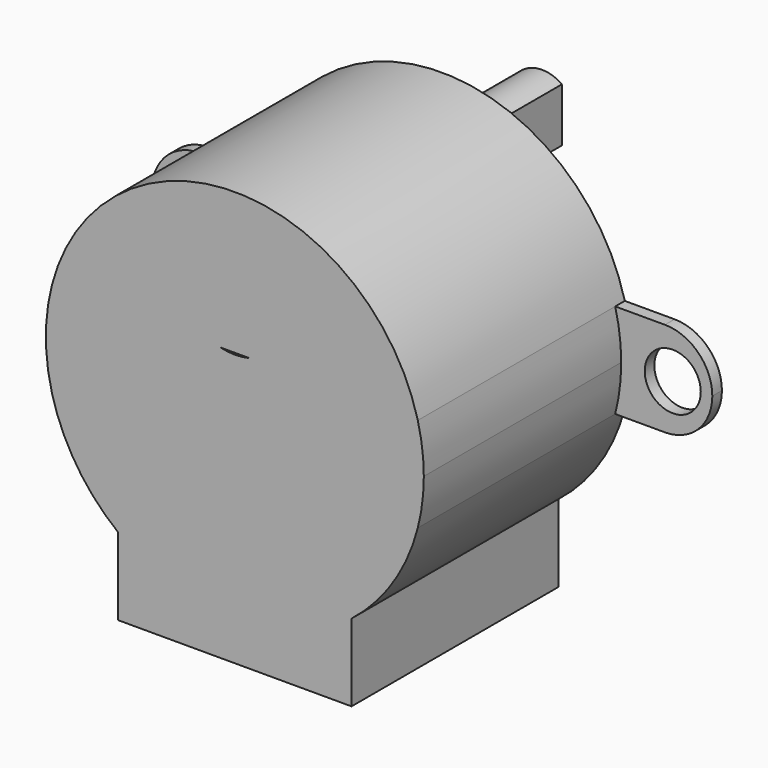
from build123d import *

# Parameters (mm, degrees)
F1_DEPTH = 19.4
F0_R     = 2.1
F2_DEPTH = 0.9
F3_DEPTH = 1.25
F4_DEPTH = 3.29
F5_DEPTH = 9.4


with BuildPart() as f1:
    # F0 (on Front) → F1 (new body)
    with BuildSketch(Plane.XZ):
        with BuildLine():
            ThreePointArc((-13.7181048254, 3.55), (-14.17, 0), (-13.7181048254, -3.55))
            Line((-13.7181048254, -3.55), (13.7181048254, -3.55))
            ThreePointArc((13.7181048254, -3.55), (14.056572224, -1.7893231436), (14.17, 0))
            ThreePointArc((14.17, 0), (14.056572224, 1.7893231436), (13.7181048254, 3.55))
            Line((13.7181048254, 3.55), (1.0858637115, 3.55))
            ThreePointArc((1.0858637115, 3.55), (0, 3.42), (-1.0858637115, 3.55))
            Line((-1.0858637115, 3.55), (-13.7181048254, 3.55))
        make_face()
        with BuildLine():
            ThreePointArc((13.7181048254, 3.55), (0, 14.17), (-13.7181048254, 3.55))
            Line((-13.7181048254, 3.55), (-1.0858637115, 3.55))
            ThreePointArc((-1.0858637115, 3.55), (-2.842976163, 11.6362807602), (4.6, 8.02))
            ThreePointArc((4.6, 8.02), (3.6162807602, 5.177023837), (1.0858637115, 3.55))
            Line((1.0858637115, 3.55), (13.7181048254, 3.55))
        make_face()
        with BuildLine():
            ThreePointArc((-13.7181048254, -3.55), (-11.8586491349, -7.7563741977), (-8.75, -11.1456897499))
            Line((-8.75, -11.1456897499), (8.75, -11.1456897499))
            ThreePointArc((8.75, -11.1456897499), (11.8586491349, -7.7563741977), (13.7181048254, -3.55))
            Line((13.7181048254, -3.55), (-13.7181048254, -3.55))
        make_face()
        with BuildLine():
            ThreePointArc((8.75, -11.1456897499), (0, -14.17), (-8.75, -11.1456897499))
            Line((-8.75, -11.1456897499), (-8.75, -16.9456897499))
            Line((-8.75, -16.9456897499), (8.75, -16.9456897499))
            Line((8.75, -16.9456897499), (8.75, -11.1456897499))
        make_face()
        with BuildLine():
            Line((8.75, -11.1456897499), (-8.75, -11.1456897499))
            ThreePointArc((-8.75, -11.1456897499), (0, -14.17), (8.75, -11.1456897499))
        make_face()
        with BuildLine():
            ThreePointArc((4.6, 8.02), (-2.842976163, 11.6362807602), (-1.0858637115, 3.55))
            Line((-1.0858637115, 3.55), (1.0858637115, 3.55))
            ThreePointArc((1.0858637115, 3.55), (3.6162807602, 5.177023837), (4.6, 8.02))
        make_face()
        with BuildLine():
            ThreePointArc((1.475, 10.0385081124), (2.2290693125, 9.1519231423), (2.5, 8.02))
            ThreePointArc((2.5, 8.02), (2.2290693125, 6.8880768577), (1.475, 6.0014918876))
            ThreePointArc((1.475, 6.0014918876), (0, 5.52), (-1.475, 6.0014918876))
            ThreePointArc((-1.475, 6.0014918876), (-2.5, 8.02), (-1.475, 10.0385081124))
            ThreePointArc((-1.475, 10.0385081124), (0, 10.52), (1.475, 10.0385081124))
        make_face(mode=Mode.SUBTRACT)
        with BuildLine():
            Line((1.475, 6.0014918876), (1.475, 10.0385081124))
            ThreePointArc((1.475, 10.0385081124), (0, 10.52), (-1.475, 10.0385081124))
            Line((-1.475, 10.0385081124), (-1.475, 6.0014918876))
            ThreePointArc((-1.475, 6.0014918876), (0, 5.52), (1.475, 6.0014918876))
        make_face()
        with BuildLine():
            ThreePointArc((1.475, 6.0014918876), (2.2290693125, 6.8880768577), (2.5, 8.02))
            ThreePointArc((2.5, 8.02), (2.2290693125, 9.1519231423), (1.475, 10.0385081124))
            Line((1.475, 10.0385081124), (1.475, 6.0014918876))
        make_face()
        with BuildLine():
            Line((-1.475, 6.0014918876), (-1.475, 10.0385081124))
            ThreePointArc((-1.475, 10.0385081124), (-2.5, 8.02), (-1.475, 6.0014918876))
        make_face()
    extrude(amount=F1_DEPTH)

    # F0 (on Front) → F2 (join)
    with BuildSketch(Plane.XZ):
        with BuildLine():
            ThreePointArc((14.17, 0), (14.056572224, -1.7893231436), (13.7181048254, -3.55))
            Line((13.7181048254, -3.55), (17.45, -3.55))
            ThreePointArc((17.45, -3.55), (19.9602290732, -2.5102290732), (21, 0))
            ThreePointArc((21, 0), (19.9602290732, 2.5102290732), (17.45, 3.55))
            Line((17.45, 3.55), (13.7181048254, 3.55))
            ThreePointArc((13.7181048254, 3.55), (14.056572224, 1.7893231436), (14.17, 0))
        make_face()
        with Locations((18.0333442986, 0)):
            Circle(F0_R, mode=Mode.SUBTRACT)
        with BuildLine():
            Line((-17.45, -3.55), (-13.7181048254, -3.55))
            ThreePointArc((-13.7181048254, -3.55), (-14.17, 0), (-13.7181048254, 3.55))
            Line((-13.7181048254, 3.55), (-17.45, 3.55))
            ThreePointArc((-17.45, 3.55), (-19.9602290732, 2.5102290732), (-21, 0))
            ThreePointArc((-21, 0), (-19.9602290732, -2.5102290732), (-17.45, -3.55))
        make_face()
        with Locations((-18.0333442986, 0)):
            Circle(F0_R, mode=Mode.SUBTRACT)
    extrude(amount=F2_DEPTH)

    # F0 (on Front) → F3 (join)
    with BuildSketch(Plane.XZ):
        with BuildLine():
            ThreePointArc((4.6, 8.02), (-2.842976163, 11.6362807602), (-1.0858637115, 3.55))
            Line((-1.0858637115, 3.55), (1.0858637115, 3.55))
            ThreePointArc((1.0858637115, 3.55), (3.6162807602, 5.177023837), (4.6, 8.02))
        make_face()
        with BuildLine():
            ThreePointArc((1.475, 10.0385081124), (2.2290693125, 9.1519231423), (2.5, 8.02))
            ThreePointArc((2.5, 8.02), (2.2290693125, 6.8880768577), (1.475, 6.0014918876))
            ThreePointArc((1.475, 6.0014918876), (0, 5.52), (-1.475, 6.0014918876))
            ThreePointArc((-1.475, 6.0014918876), (-2.5, 8.02), (-1.475, 10.0385081124))
            ThreePointArc((-1.475, 10.0385081124), (0, 10.52), (1.475, 10.0385081124))
        make_face(mode=Mode.SUBTRACT)
    extrude(amount=-F3_DEPTH)

    # F0 (on Front) → F4 (join)
    with BuildSketch(Plane.XZ):
        with BuildLine():
            Line((-1.475, 6.0014918876), (-1.475, 10.0385081124))
            ThreePointArc((-1.475, 10.0385081124), (-2.5, 8.02), (-1.475, 6.0014918876))
        make_face()
        with BuildLine():
            Line((1.475, 6.0014918876), (1.475, 10.0385081124))
            ThreePointArc((1.475, 10.0385081124), (0, 10.52), (-1.475, 10.0385081124))
            Line((-1.475, 10.0385081124), (-1.475, 6.0014918876))
            ThreePointArc((-1.475, 6.0014918876), (0, 5.52), (1.475, 6.0014918876))
        make_face()
        with BuildLine():
            ThreePointArc((1.475, 6.0014918876), (2.2290693125, 6.8880768577), (2.5, 8.02))
            ThreePointArc((2.5, 8.02), (2.2290693125, 9.1519231423), (1.475, 10.0385081124))
            Line((1.475, 10.0385081124), (1.475, 6.0014918876))
        make_face()
    extrude(amount=-F4_DEPTH)

    # F0 (on Front) → F5 (join)
    with BuildSketch(Plane.XZ):
        with BuildLine():
            Line((1.475, 6.0014918876), (1.475, 10.0385081124))
            ThreePointArc((1.475, 10.0385081124), (0, 10.52), (-1.475, 10.0385081124))
            Line((-1.475, 10.0385081124), (-1.475, 6.0014918876))
            ThreePointArc((-1.475, 6.0014918876), (0, 5.52), (1.475, 6.0014918876))
        make_face()
    extrude(amount=-F5_DEPTH)


solid = f1.part
